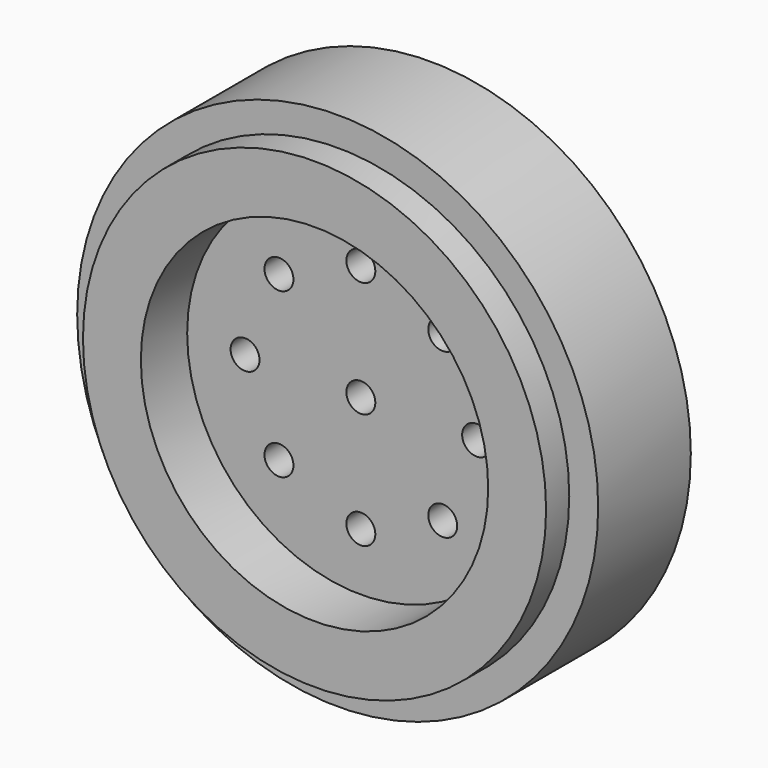
from build123d import *

# Parameters (mm, degrees)
F0_R     = 57.15
F0_R_2   = 50.8
F1_DEPTH = 25.4
F0_R_3   = 38.1
F2_DEPTH = 31.75
F0_R_4   = 3.175
F3_DEPTH = 19.05


with BuildPart() as f1:
    # F0 (on Front) → F1 (new body)
    with BuildSketch(Plane.XZ):
        Circle(F0_R)
        Circle(F0_R_2, mode=Mode.SUBTRACT)
    extrude(amount=F1_DEPTH)

    # F0 (on Front) → F2 (join)
    with BuildSketch(Plane.XZ):
        Circle(F0_R_2)
        Circle(F0_R_3, mode=Mode.SUBTRACT)
    extrude(amount=F2_DEPTH)

    # F0 (on Front) → F3 (join)
    with BuildSketch(Plane.XZ):
        Circle(F0_R_3)
        with Locations((-17.960512, -17.960512)):
            Circle(F0_R_4, mode=Mode.SUBTRACT)
        with Locations((0, -25.4)):
            Circle(F0_R_4, mode=Mode.SUBTRACT)
        with Locations((17.960512, -17.960512)):
            Circle(F0_R_4, mode=Mode.SUBTRACT)
        with Locations((-25.4, 0)):
            Circle(F0_R_4, mode=Mode.SUBTRACT)
        with Locations((-17.960512, 17.960512)):
            Circle(F0_R_4, mode=Mode.SUBTRACT)
        Circle(F0_R_4, mode=Mode.SUBTRACT)
        with Locations((25.4, 0)):
            Circle(F0_R_4, mode=Mode.SUBTRACT)
        with Locations((0, 25.4)):
            Circle(F0_R_4, mode=Mode.SUBTRACT)
        with Locations((17.960512, 17.960512)):
            Circle(F0_R_4, mode=Mode.SUBTRACT)
    extrude(amount=F3_DEPTH)


solid = f1.part
